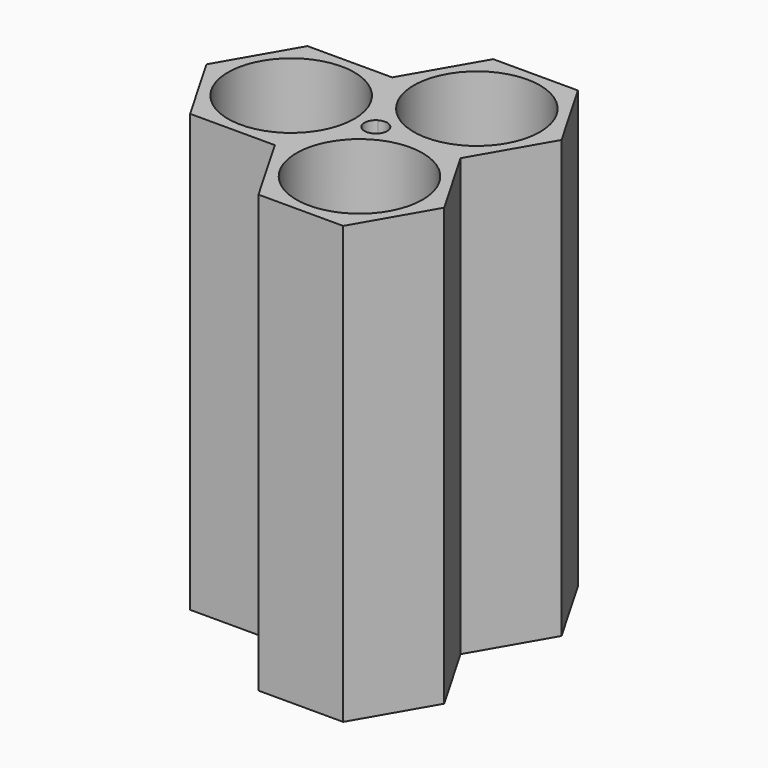
from build123d import *

# Parameters (mm, degrees)
F0_R     = 9.25
F1_DEPTH = 64


with BuildPart() as f1:
    # F0 (on Top) → F1 (new body)
    with BuildSketch(Plane.XY):
        with BuildLine():
            Line((6.206515, 10.75), (-6.206515, 10.75))
            Line((-6.206515, 10.75), (-12.413031, 0))
            Line((-12.413031, 0), (-6.206515, -10.75))
            Line((-6.206515, -10.75), (6.206515, -10.75))
            Line((6.206515, -10.75), (11.581515, -1.440227))
            ThreePointArc((11.581515, -1.440227), (10.75, 0), (11.581515, 1.440227))
            Line((11.581515, 1.440227), (6.206515, 10.75))
        make_face()
        Circle(F0_R, mode=Mode.SUBTRACT)
        with BuildLine():
            Line((12.413031, 21.5), (6.206515, 10.75))
            Line((6.206515, 10.75), (11.581515, 1.440227))
            ThreePointArc((11.581515, 1.440227), (13.244546, 1.440227), (14.076062, 0))
            Line((14.076062, 0), (24.826062, 0))
            Line((24.826062, 0), (31.032577, 10.75))
            Line((31.032577, 10.75), (24.826062, 21.5))
            Line((24.826062, 21.5), (12.413031, 21.5))
        make_face()
        with Locations((18.619546, 10.75)):
            Circle(F0_R, mode=Mode.SUBTRACT)
        with BuildLine():
            Line((24.826062, 0), (14.076062, 0))
            ThreePointArc((14.076062, 0), (13.244546, -1.440227), (11.581515, -1.440227))
            Line((11.581515, -1.440227), (6.206515, -10.75))
            Line((6.206515, -10.75), (12.413031, -21.5))
            Line((12.413031, -21.5), (24.826062, -21.5))
            Line((24.826062, -21.5), (31.032577, -10.75))
            Line((31.032577, -10.75), (24.826062, 0))
        make_face()
        with Locations((18.619546, -10.75)):
            Circle(F0_R, mode=Mode.SUBTRACT)
    extrude(amount=F1_DEPTH)


solid = f1.part
